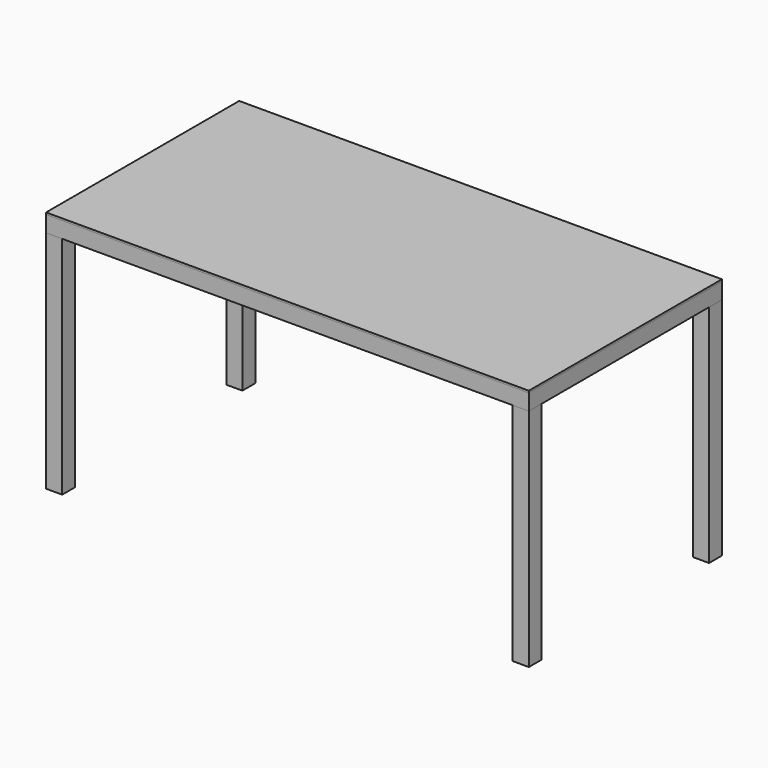
from build123d import *

# Parameters (mm, degrees)
F0_W     = 10
F0_H     = 10
F0_W_2   = 7
F0_H_2   = 7
F1_DEPTH = 140
F3_W     = 10
F3_H     = 10
F3_W_2   = 7
F3_H_2   = 7
F5_W     = 300
F5_H     = 150
F6_DEPTH = 1.2


with BuildPart() as f1:
    # F0 (on Top) → F1 (new body)
    with BuildSketch(Plane.XY):
        with Locations((-145, 70)):
            Rectangle(F0_W, F0_H)
        with Locations((-145, 70)):
            Rectangle(F0_W_2, F0_H_2, mode=Mode.SUBTRACT)
    extrude(amount=F1_DEPTH)


with BuildPart() as f1b:
    # F0 (on Top) → F1, piece 2 (new body)
    with BuildSketch(Plane.XY):
        with Locations((145, 70)):
            Rectangle(F0_W, F0_H)
        with Locations((145, 70)):
            Rectangle(F0_W_2, F0_H_2, mode=Mode.SUBTRACT)
    extrude(amount=F1_DEPTH)


with BuildPart() as f1c:
    # F0 (on Top) → F1, piece 3 (new body)
    with BuildSketch(Plane.XY):
        with Locations((145, -70)):
            Rectangle(F0_W, F0_H)
        with Locations((145, -70)):
            Rectangle(F0_W_2, F0_H_2, mode=Mode.SUBTRACT)
    extrude(amount=F1_DEPTH)


with BuildPart() as f1d:
    # F0 (on Top) → F1, piece 4 (new body)
    with BuildSketch(Plane.XY):
        with Locations((-145, -70)):
            Rectangle(F0_W, F0_H)
        with Locations((-145, -70)):
            Rectangle(F0_W_2, F0_H_2, mode=Mode.SUBTRACT)
    extrude(amount=F1_DEPTH)


with BuildPart() as f4:
    # F4: sweep along a path in F2
    with BuildLine(Plane.XY.offset(140)) as f4_path:
        Line((-150, -75), (150, -75))
        Line((150, -75), (150, 75))
        Line((150, 75), (-150, 75))
        Line((-150, 75), (-150, -75))
    # F3 (on Right) → F4 (sweep)
    with BuildSketch(Plane.YZ):
        with Locations((-70, 145)):
            Rectangle(F3_W, F3_H)
        with Locations((-70, 145)):
            Rectangle(F3_W_2, F3_H_2, mode=Mode.SUBTRACT)
    sweep(path=f4_path.line, transition=Transition.RIGHT)


with BuildPart() as f6:
    # F5 (on face) → F6 (new body)
    with BuildSketch(Plane.XY.offset(150)):
        Rectangle(F5_W, F5_H)
    extrude(amount=F6_DEPTH)


solid = Compound([f1.part, f1b.part, f1c.part, f1d.part, f4.part, f6.part])
